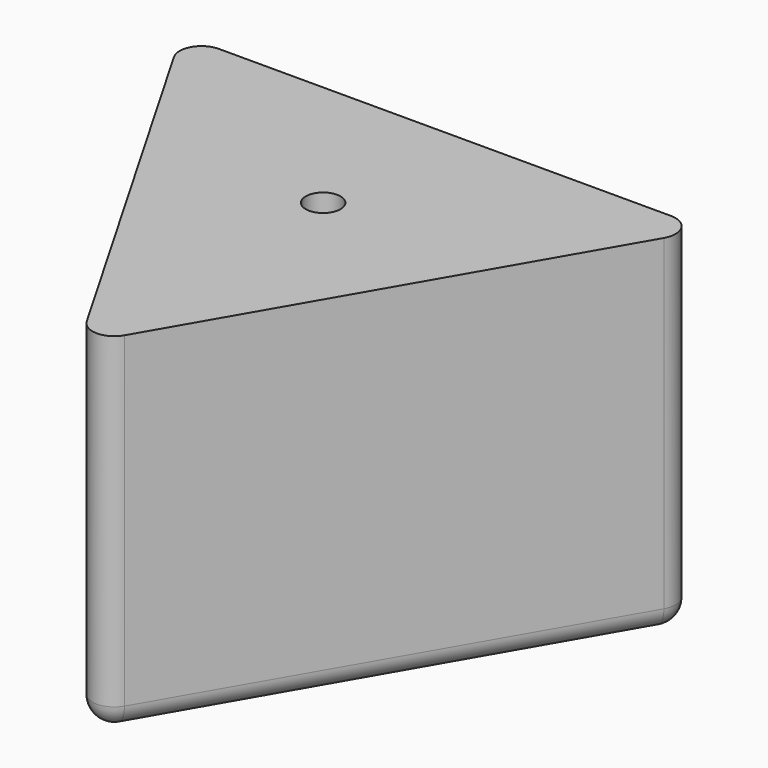
from build123d import *

# Parameters (mm, degrees)
F1_DEPTH = 50.8
F2_R     = 3.175
F3_R     = 2.54
F4_DEPTH = 50.801


with BuildPart() as f1:
    # F0 (on Top) → F1 (new body)
    with BuildSketch(Plane.XY):
        Polygon((38.494829, 22.225), (-38.494829, 22.225), (0, -44.45), align=None)
    extrude(amount=F1_DEPTH)

    # F2
    f2_edges = [f1.edges().sort_by_distance(p)[0] for p in [
        (-38.494829, 22.225, 25.4),
        (0, -44.45, 25.4),
        (38.494829, 22.225, 25.4),
        (0, 22.225, 0),
        (19.247415, -11.1125, 0),
        (-19.247415, -11.1125, 0),
    ]]
    fillet(f2_edges, radius=F2_R)

    # F3 (on face) → F4 (cut, through all)
    with BuildSketch(Plane.XY.offset(50.8)):
        Circle(F3_R)
    extrude(amount=-F4_DEPTH, mode=Mode.SUBTRACT)


solid = f1.part
